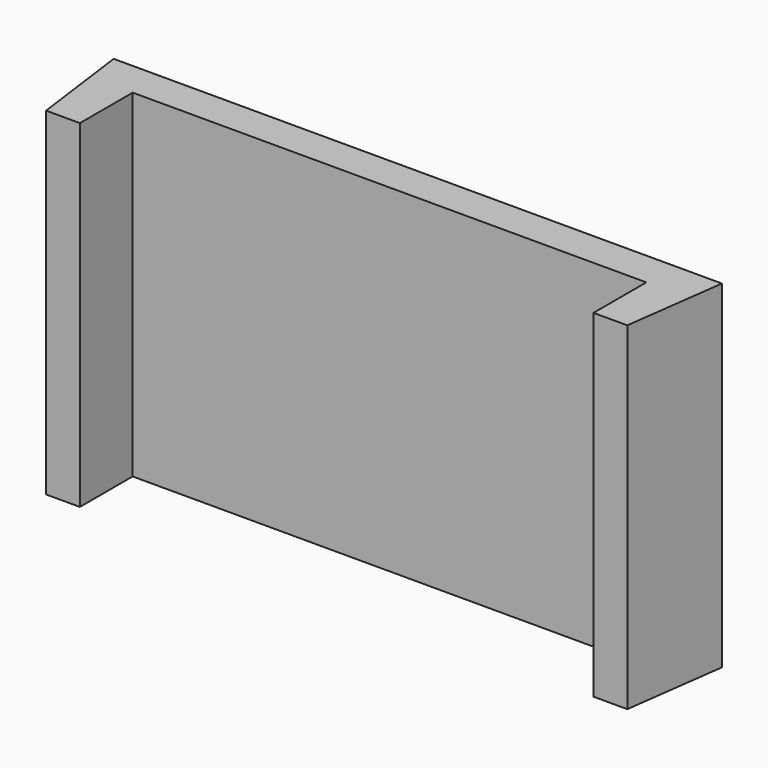
from build123d import *

# Parameters (mm, degrees)
PAD_DEPTH = 5


with BuildPart() as part:
    # Sketch → Pad (new body)
    with BuildSketch(Plane.XY):
        Polygon((0.7, -1.5), (0.7, -0.522979), (8.3, -0.522979), (8.3, -1.5), (8.8, -1.5), (9, 0), (0, 0), (0.2, -1.5), align=None)
    extrude(amount=PAD_DEPTH)


solid = part.part
